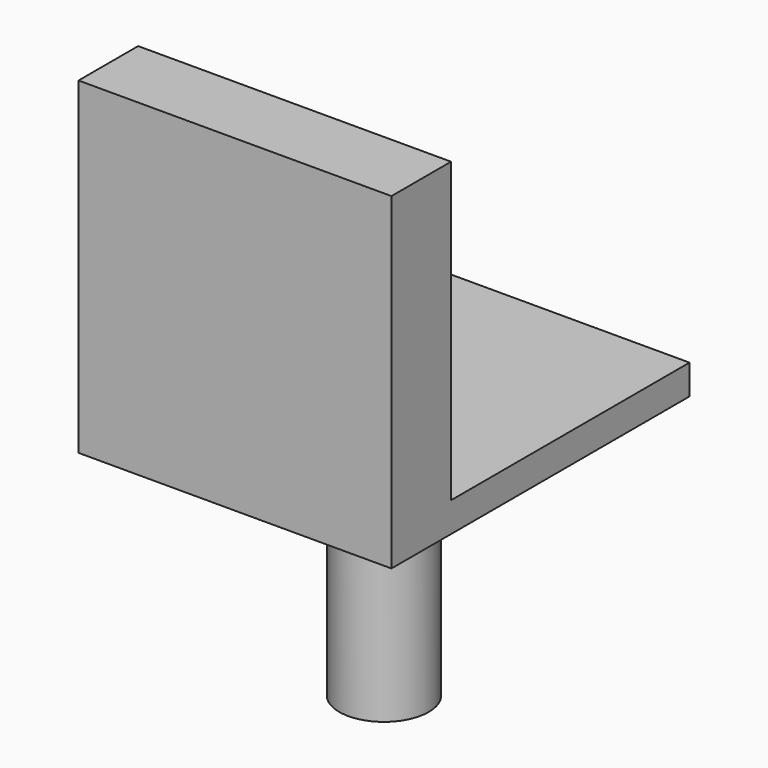
from build123d import *

# Parameters (mm, degrees)
F0_W     = 533.4
F0_H     = 635
F1_DEPTH = 50.8
F2_W     = 533.4
F2_H     = 127
F3_DEPTH = 508
F4_R     = 76.2
F5_DEPTH = 406.4


with BuildPart() as f1:
    # F0 (on Top) → F1 (new body)
    with BuildSketch(Plane.XY):
        with Locations((266.7, 317.5)):
            Rectangle(F0_W, F0_H)
    extrude(amount=F1_DEPTH)

    # F2 (on face) → F3 (join)
    with BuildSketch(Plane.XY.offset(50.8)):
        with Locations((266.7, 63.5)):
            Rectangle(F2_W, F2_H)
    extrude(amount=F3_DEPTH)

    # F4 (on face) → F5 (join)
    with BuildSketch(Plane(origin=(0, 0, 0), x_dir=(1, 0, 0), z_dir=(0, 0, -1))):
        with Locations((266.7, -317.5)):
            Circle(F4_R)
    extrude(amount=F5_DEPTH)


solid = f1.part
